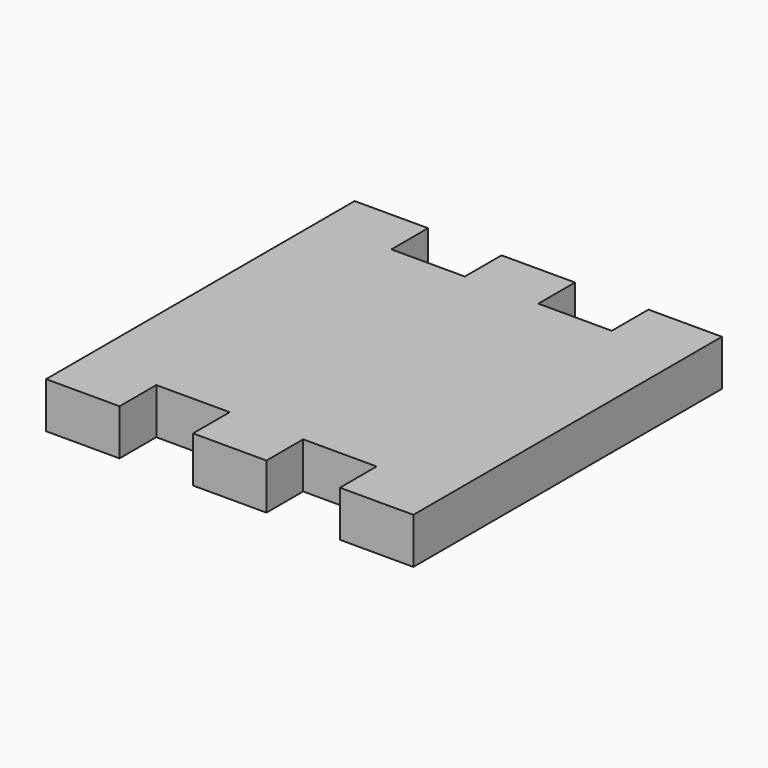
from build123d import *

# Parameters (mm, degrees)
F1_DEPTH = 3.175


with BuildPart() as f1:
    # F0 (on Top) → F1 (new body)
    with BuildSketch(Plane.XY):
        Polygon((-2.54, -13.335), (0, -13.335), (2.54, -13.335), (2.54, -10.16), (7.62, -10.16), (7.62, -13.335), (12.7, -13.335), (12.7, 13.335), (7.62, 13.335), (7.62, 10.16), (2.54, 10.16), (2.54, 13.335), (0, 13.335), (-2.54, 13.335), (-2.54, 10.16), (-7.62, 10.16), (-7.62, 13.335), (-12.7, 13.335), (-12.7, -13.335), (-7.62, -13.335), (-7.62, -10.16), (-2.54, -10.16), align=None)
    extrude(amount=F1_DEPTH)


solid = f1.part
